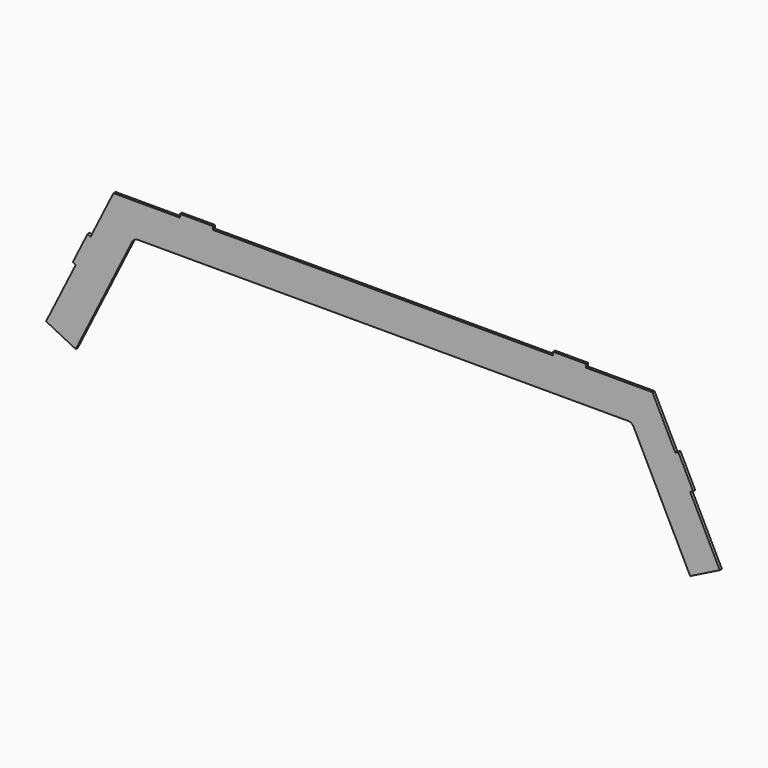
from build123d import *

# Parameters (mm, degrees)
F1_DEPTH  = 2
F3_DEPTH  = 2.001
F4_W      = 3
F4_H      = 69.7761774063
F5_DEPTH  = 3
F7_D      = 6.6
F9_DEPTH  = 25
F10_W     = 25
F10_H     = 2.5
F11_DEPTH = 2


with BuildPart() as f1:
    # F0 (on Front) → F1 (new body)
    with BuildSketch(Plane.XZ):
        Polygon((-307.3464844827, 210.4111198679), (-307.3464844827, -195.9888801321), (200.6535155173, -195.9888801321), (200.6535155173, 210.4111198679), (149.8535155173, 312.0111198679), (-256.5464844827, 312.0111198679), align=None)
    extrude(amount=F1_DEPTH)

    # F2 (on face) → F3 (cut, through all)
    with BuildSketch(Plane.XZ.offset(2)):
        with BuildLine():
            Line((99.0535155173, 210.4111198679), (-205.7464844827, 210.4111198679))
            ThreePointArc((-205.7464844827, 210.4111198679), (-241.667508967, 195.5321443521), (-256.5464844827, 159.6111198679))
            Line((-256.5464844827, 159.6111198679), (-256.5464844827, -94.3888801321))
            ThreePointArc((-256.5464844827, -94.3888801321), (-241.667508967, -130.3099046164), (-205.7464844827, -145.1888801321))
            Line((-205.7464844827, -145.1888801321), (99.0535155173, -145.1888801321))
            ThreePointArc((99.0535155173, -145.1888801321), (134.9745400016, -130.3099046164), (149.8535155173, -94.3888801321))
            Line((149.8535155173, -94.3888801321), (149.8535155173, 159.6111198679))
            ThreePointArc((149.8535155173, 159.6111198679), (134.9745400016, 195.5321443521), (99.0535155173, 210.4111198679))
        make_face()
    extrude(amount=-F3_DEPTH, mode=Mode.SUBTRACT)

    # F4 (on face) → F5 (join)
    with BuildSketch(Plane.XZ.offset(2)):
        with Locations((-21.4731446389, 260.3619992733)):
            Rectangle(F4_W, F4_H)
    extrude(amount=-F5_DEPTH)

    # F7 (through all)
    with Locations(Plane.XZ.offset(2)):
        with Locations((-294.8464844827, 185.0111198679), (-294.8464844827, 7.2111198679), (-294.8464844827, -170.5888801321), (188.1535155173, -170.5888801321), (188.1535155173, 7.2111198679), (188.1535155173, 185.0111198679)):
            Hole(F7_D / 2)

    # F8 (on face) → F9 (cut)
    with BuildSketch(Plane.XZ.offset(2)):
        with BuildLine():
            Line((-284.9858047077, 199.2307799804), (-307.3464844827, 210.4111198679))
            Line((-307.3464844827, 210.4111198679), (-307.3464844827, -195.9888801321))
            Line((-307.3464844827, -195.9888801321), (200.6535155173, -195.9888801321))
            Line((200.6535155173, -195.9888801321), (200.6535155173, 210.4111198679))
            Line((200.6535155173, 210.4111198679), (178.2928357423, 199.2307799804))
            Line((178.2928357423, 199.2307799804), (135.7846318098, 284.2471878454))
            ThreePointArc((135.7846318098, 284.2471878454), (133.9411514154, 286.2643739096), (131.3124958548, 287.0111198679))
            Line((131.3124958548, 287.0111198679), (-238.0054648202, 287.0111198679))
            ThreePointArc((-238.0054648202, 287.0111198679), (-240.6341203808, 286.2643739096), (-242.4776007752, 284.2471878454))
            Line((-242.4776007752, 284.2471878454), (-284.9858047077, 199.2307799804))
        make_face()
    extrude(amount=-F9_DEPTH, mode=Mode.SUBTRACT)

    # F10 (on face) → F11 (join)
    with BuildSketch(Plane.XZ.offset(2)):
        with Locations((-194.0464844827, 313.2611198679)):
            Rectangle(F10_W, F10_H)
        with Locations((87.3535155173, 313.2611198679)):
            Rectangle(F10_W, F10_H)
        Polygon((-284.9858047077, 255.1324794179), (-273.8054648202, 277.4931591929), (-276.0415327977, 278.6111931816), (-287.2218726852, 256.2505134066), align=None)
        Polygon((169.3485638323, 278.6111931816), (167.1124958548, 277.4931591929), (178.2928357423, 255.1324794179), (180.5289037198, 256.2505134066), align=None)
    extrude(amount=-F11_DEPTH)


solid = f1.part
